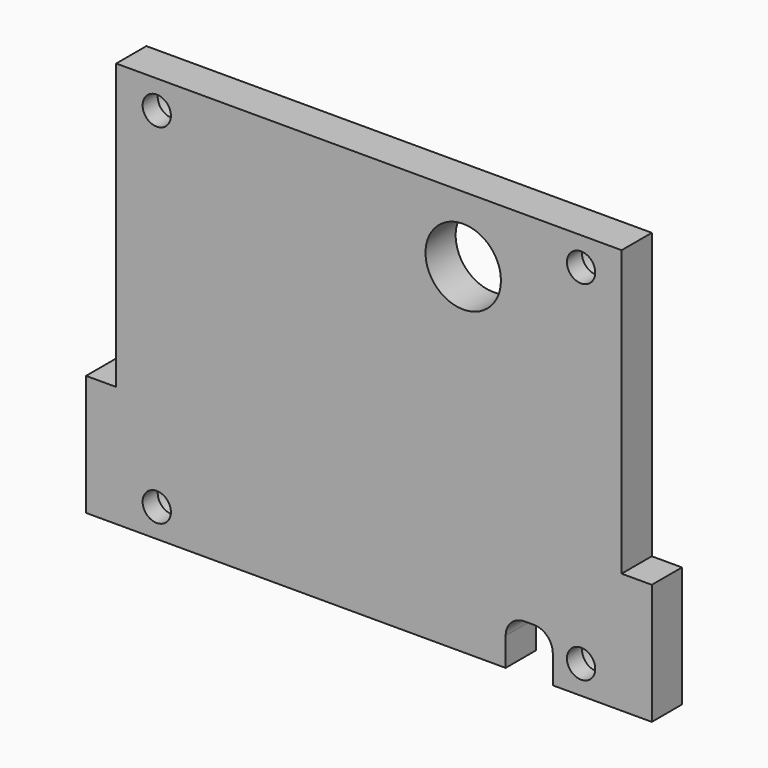
from build123d import *

# Parameters (mm, degrees)
SKETCH060_R     = 1.5
PAD035_DEPTH    = 4
SKETCH061_R     = 2.5
POCKET025_DEPTH = 2
SKETCH048_W     = 5
SKETCH048_H     = 4
POCKET019_DEPTH = 5
FILLET012_R     = 2
FILLET013_R     = 2
SKETCH049_R     = 4
POCKET020_DEPTH = 4


with BuildPart() as part:
    # Sketch060 (on CopyDatumPlane) → Pad035 (new body)
    with BuildSketch(Plane(origin=(0, 20, 0), x_dir=(1, 0, 0), z_dir=(0, 1, 0))):
        Polygon((-30, 28), (30, 28), (30, 15.2), (26.8, 15.2), (26.8, -15), (-26.8, -15), (-26.8, 15.2), (-30, 15.2), align=None)
        with Locations((-22.5, 25)):
            Circle(SKETCH060_R, mode=Mode.SUBTRACT)
        with Locations((22.5, 25)):
            Circle(SKETCH060_R, mode=Mode.SUBTRACT)
        with Locations((22.5, -12)):
            Circle(SKETCH060_R, mode=Mode.SUBTRACT)
        with Locations((-22.5, -12)):
            Circle(SKETCH060_R, mode=Mode.SUBTRACT)
    extrude(amount=PAD035_DEPTH)

    # Sketch061 (on Face14 of Pad035) → Pocket025 (cut)
    with BuildSketch(Plane(origin=(0, 24, 0), x_dir=(1, 0, 0), z_dir=(0, 1, 0))):
        with Locations((-22.5, 25)):
            Circle(SKETCH061_R)
        with Locations((22.5, 25)):
            Circle(SKETCH061_R)
        with Locations((22.5, -12)):
            Circle(SKETCH061_R)
        with Locations((-22.5, -12)):
            Circle(SKETCH061_R)
    extrude(amount=-POCKET025_DEPTH, mode=Mode.SUBTRACT)

    # Sketch048 (on Face1 of Pocket025) → Pocket019 (cut)
    with BuildSketch(Plane(origin=(0, 20, -28), x_dir=(-1, 0, 0), z_dir=(0, 0, -1))):
        with Locations((-17, 2)):
            Rectangle(SKETCH048_W, SKETCH048_H)
    extrude(amount=-POCKET019_DEPTH, mode=Mode.SUBTRACT)

    # Fillet012
    fillet012_edges = [part.edges().sort_by_distance(p)[0] for p in [
        (19.5, 22, -23),
    ]]
    fillet(fillet012_edges, radius=FILLET012_R)

    # Fillet013
    fillet013_edges = [part.edges().sort_by_distance(p)[0] for p in [
        (14.5, 22, -23),
    ]]
    fillet(fillet013_edges, radius=FILLET013_R)

    # Sketch049 (on Face20 of Fillet013) → Pocket020 (cut)
    with BuildSketch(Plane(origin=(0, 24, 0), x_dir=(1, 0, 0), z_dir=(0, 1, 0))):
        with Locations((10, -8)):
            Circle(SKETCH049_R)
    extrude(amount=-POCKET020_DEPTH, mode=Mode.SUBTRACT)


solid = part.part
